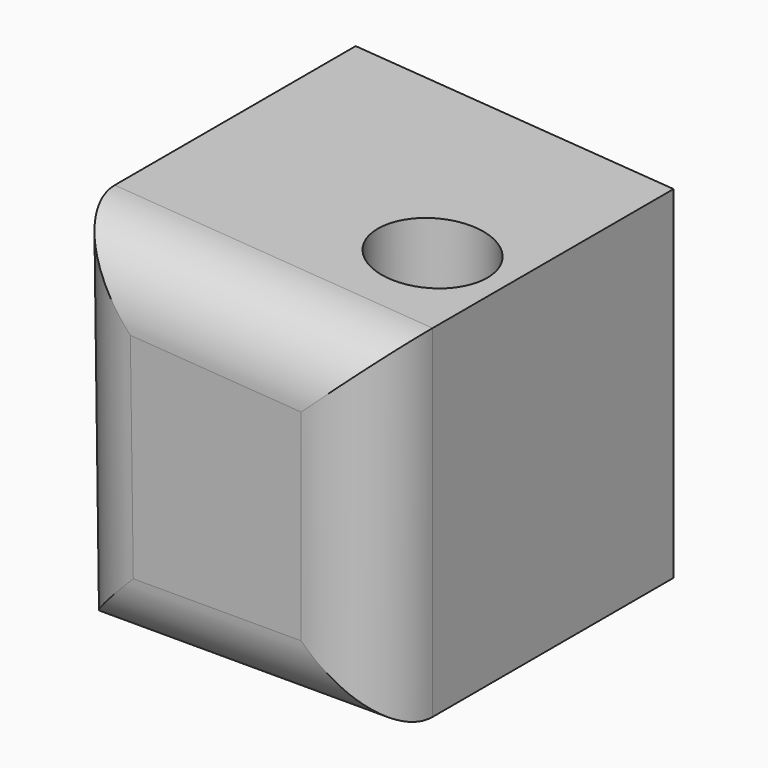
from build123d import *

# Parameters (mm, degrees)
F3_DEPTH = 260.523276
F4_R     = 50.8
F0_R     = 38.1
F1_DEPTH = 285.439702


with BuildPart() as f3:
    # F2 (on Front) → F3 (new body)
    with BuildSketch(Plane.XZ):
        Polygon((-113.660068, 137.07054), (-110.191997, -116.905782), (107.665264, -116.905782), (107.665264, 121.432772), align=None)
    extrude(amount=F3_DEPTH)

    # F4
    f4_edges = [f3.edges().sort_by_distance(p)[0] for p in [
        (-2.997402, -260.523276, 129.251656),
        (-111.926032, -260.523276, 10.082379),
        (-1.263367, -260.523276, -116.905782),
        (107.665264, -260.523276, 2.263495),
    ]]
    fillet(f4_edges, radius=F4_R)

    # F0 (on face) → F1 (cut)
    with BuildSketch(Plane(origin=(0, 0, -116.905782), x_dir=(1, 0, 0), z_dir=(0, 0, -1))):
        with Locations((56.865264, 146.223276)):
            Circle(F0_R)
    extrude(amount=-F1_DEPTH, mode=Mode.SUBTRACT)


solid = f3.part
